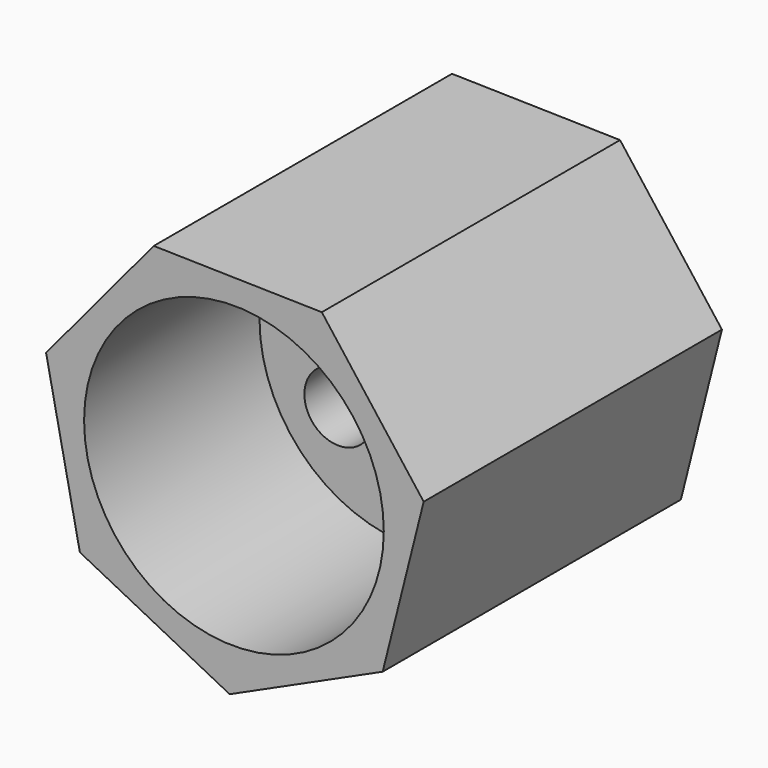
from build123d import *

# Parameters (mm, degrees)
F0_R      = 26.5
F1_DEPTH  = 45
F2_R      = 20.5
F3_DEPTH  = 30
F4_R      = 2.5
F5_DEPTH  = 45.001
F7_DEPTH  = 10
F9_DEPTH  = 45.001
F10_R     = 15
F11_DEPTH = 6
F12_R     = 4.6840080941
F13_DEPTH = 10


with BuildPart() as f1:
    # F0 (on Front) → F1 (new body)
    with BuildSketch(Plane.XZ):
        Circle(F0_R)
    extrude(amount=F1_DEPTH)

    # F2 (on face) → F3 (cut)
    with BuildSketch(Plane.XZ.offset(45)):
        Circle(F2_R)
    extrude(amount=-F3_DEPTH, mode=Mode.SUBTRACT)

    # F4 (on face) → F5 (cut, through all)
    with BuildSketch(Plane(origin=(0, 0, 0), x_dir=(-1, 0, 0), z_dir=(0, 1, 0))):
        Circle(F4_R)
    extrude(amount=-F5_DEPTH, mode=Mode.SUBTRACT)

    # F6 (on face) → F7 (cut)
    with BuildSketch(Plane.XZ.offset(15)):
        with BuildLine():
            Line((3.4260696722, 2.917541191), (-3.4260696722, 2.917541191))
            ThreePointArc((-3.4260696722, 2.917541191), (0, -4.5), (3.4260696722, 2.917541191))
        make_face()
    extrude(amount=-F7_DEPTH, mode=Mode.SUBTRACT)

    # F8 (on face) → F9 (cut, through all)
    with BuildSketch(Plane(origin=(0, 0, 0), x_dir=(-1, 0, 0), z_dir=(0, 1, 0))):
        with BuildLine():
            Line((-25.9593629808, 5.325549139), (-12.0217161029, 23.6162728207))
            ThreePointArc((-12.0217161029, 23.6162728207), (-21.077908703, 16.061499454), (-25.9593629808, 5.325549139))
        make_face()
        with BuildLine():
            ThreePointArc((10.9685281987, 24.1234613842), (-0.584475192, 26.4935537207), (-12.0217161029, 23.6162728207))
            Line((-12.0217161029, 23.6162728207), (10.9685281987, 24.1234613842))
        make_face()
        with BuildLine():
            ThreePointArc((25.6992470496, 6.4651914964), (20.3490800596, 16.9754216657), (10.9685281987, 24.1234613842))
            Line((10.9685281987, 24.1234613842), (25.6992470496, 6.4651914964))
        make_face()
        with BuildLine():
            ThreePointArc((26.5, 0), (26.2990498575, 3.257295902), (25.6992470496, 6.4651914964))
            Line((25.6992470496, 6.4651914964), (21.077908703, -16.061499454))
            ThreePointArc((21.077908703, -16.061499454), (25.1079129024, -8.4760078861), (26.5, 0))
        make_face()
        with BuildLine():
            ThreePointArc((0.584475192, -26.4935537207), (12.0217161029, -23.6162728207), (21.077908703, -16.061499454))
            Line((21.077908703, -16.061499454), (0.584475192, -26.4935537207))
        make_face()
        with BuildLine():
            Line((0.584475192, -26.4935537207), (-20.3490800596, -16.9754216657))
            ThreePointArc((-20.3490800596, -16.9754216657), (-10.9685281987, -24.1234613842), (0.584475192, -26.4935537207))
        make_face()
        with BuildLine():
            Line((-20.3490800596, -16.9754216657), (-25.9593629808, 5.325549139))
            ThreePointArc((-25.9593629808, 5.325549139), (-25.6992470496, -6.4651914964), (-20.3490800596, -16.9754216657))
        make_face()
    extrude(amount=-F9_DEPTH, mode=Mode.SUBTRACT)

    # F10 (on face) → F11 (join)
    with BuildSketch(Plane(origin=(0, 0, 0), x_dir=(-1, 0, 0), z_dir=(0, 1, 0))):
        Polygon((-12.0217161029, 23.6162728207), (-25.9593629808, 5.325549139), (-20.3490800596, -16.9754216657), (0.584475192, -26.4935537207), (21.077908703, -16.061499454), (25.6992470496, 6.4651914964), (10.9685281987, 24.1234613842), align=None)
        Circle(F10_R, mode=Mode.SUBTRACT)
    extrude(amount=F11_DEPTH)

    # F12 (on face) → F13 (cut)
    with BuildSketch(Plane.XZ.offset(15)):
        with Locations((11.9633907452, 0)):
            Circle(F12_R)
        with Locations((3.6968910506, 11.3778607252)):
            Circle(F12_R)
        with Locations((-9.6785864232, 7.0319046475)):
            Circle(F12_R)
        with Locations((-9.6785864232, -7.0319046475)):
            Circle(F12_R)
        with Locations((3.6968910506, -11.3778607252)):
            Circle(F12_R)
    extrude(amount=-F13_DEPTH, mode=Mode.SUBTRACT)


solid = f1.part
